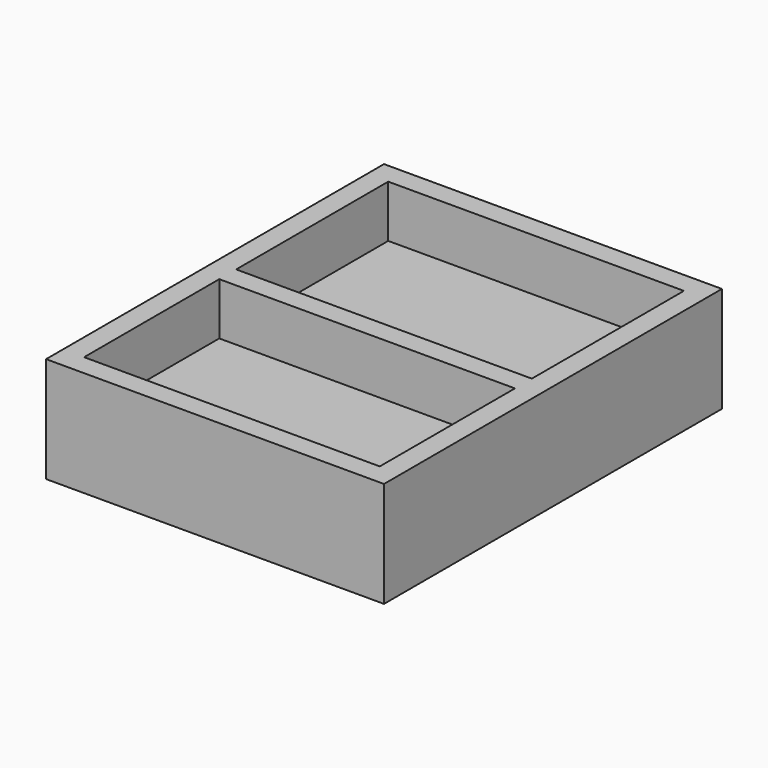
from build123d import *

# Parameters (mm, degrees)
F0_W     = 800
F0_H     = 1000
F0_W_2   = 700
F0_H_2   = 400
F0_H_3   = 450
F1_DEPTH = 125
F2_W     = 700
F2_H     = 450
F3_DEPTH = 1.5


with BuildPart() as f1:
    # F0 (on Top) → F1 (new body, symmetric)
    with BuildSketch(Plane.XY):
        Rectangle(F0_W, F0_H)
        with Locations((0, -250)):
            Rectangle(F0_W_2, F0_H_2, mode=Mode.SUBTRACT)
        with Locations((0, 225)):
            Rectangle(F0_W_2, F0_H_3, mode=Mode.SUBTRACT)
    extrude(amount=F1_DEPTH, both=True)

    # F2 (on Top) → F3 (join, symmetric)
    with BuildSketch(Plane.XY):
        with Locations((0, 225)):
            Rectangle(F2_W, F2_H)
        with Locations((0, -225)):
            Rectangle(F2_W, F2_H)
    extrude(amount=F3_DEPTH, both=True)


solid = f1.part
